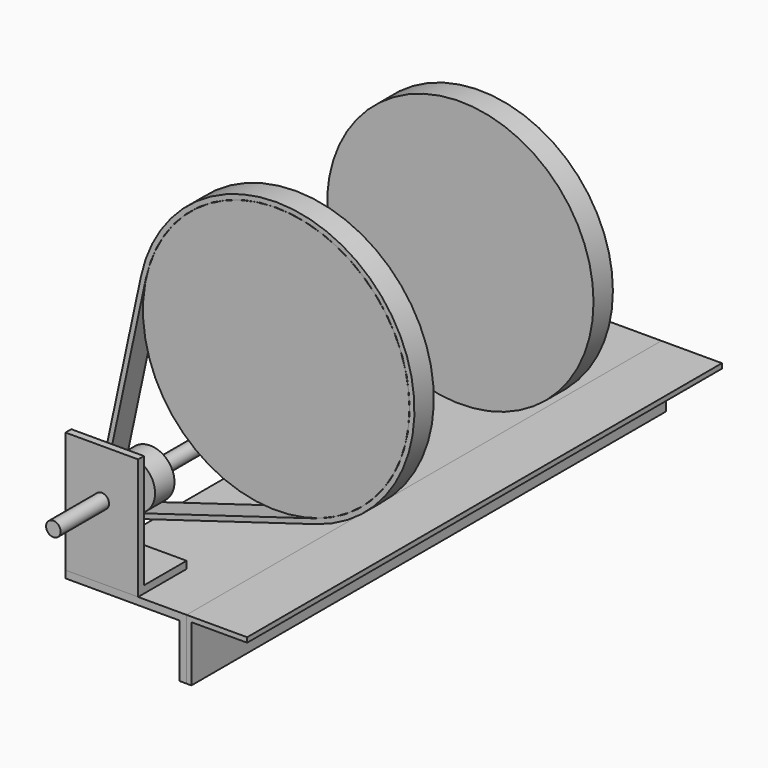
from build123d import *

# Parameters (mm, degrees)
F3_DEPTH       = 245
F5_DEPTH       = 245
F7_DEPTH       = 30
F8_R           = 3
F9_DEPTH       = 245.001
F10_R          = 3
F11_DEPTH      = 135
F11_DEPTH_BACK = 25
F12_R          = 55
F13_DEPTH      = 10
F12_R_2        = 10
F12_R_3        = 3
F14_R          = 55
F15_DEPTH      = 10
F14_R_2        = 10
F17_DEPTH      = 10


with BuildPart() as f3:
    # F2 (on Front) → F3 (new body)
    with BuildSketch(Plane.XZ):
        Polygon((0, 25), (0, 0), (2, 0), (2, 23), (25, 23), (25, 25), align=None)
    extrude(amount=-F3_DEPTH)


with BuildPart() as f5:
    # F4 (on Front) → F5 (new body)
    with BuildSketch(Plane.XZ):
        Polygon((-3, 0), (0, 0), (0, 25), (-50, 25), (-50, 22), (-3, 22), align=None)
    extrude(amount=-F5_DEPTH)


with BuildPart() as f7:
    # F6 (on face) → F7 (new body)
    with BuildSketch(Plane(origin=(-50, 0, 0), x_dir=(0, -1, 0), z_dir=(-1, 0, 0))):
        Polygon((-25, 25), (0, 25), (0, 75), (-3, 75), (-3, 28), (-25, 28), align=None)
    extrude(amount=-F7_DEPTH)


with BuildPart() as f7b:
    # F6 (on face) → F7, piece 2 (new body)
    with BuildSketch(Plane(origin=(-50, 0, 0), x_dir=(0, -1, 0), z_dir=(-1, 0, 0))):
        Polygon((-150, 75), (-150, 25), (-122, 25), (-122, 28), (-147, 28), (-147, 75), align=None)
    extrude(amount=-F7_DEPTH)


with BuildPart() as f9_tool:
    # F8 (on face) → F9 (new body, through all)
    with BuildSketch(Plane.XZ):
        with Locations((-35, 55)):
            Circle(F8_R)
    extrude(amount=-F9_DEPTH)


with BuildPart() as f7_1:
    add(f7.part)

    # F9: cut by f9_tool
    add(f9_tool.part, mode=Mode.SUBTRACT)

    # F10 (on Front) → F11 (join, two sides)
    with BuildSketch(Plane.XZ) as f11_sk:
        with Locations((-35, 55)):
            Circle(F10_R)
    extrude(amount=-F11_DEPTH)
    extrude(f11_sk.sketch, amount=F11_DEPTH_BACK)


with BuildPart() as f7b_1:
    add(f7b.part)

    # F9: cut by f9_tool
    add(f9_tool.part, mode=Mode.SUBTRACT)


with BuildPart() as f13:
    # F12 (on offset) → F13 (new body)
    with BuildSketch(Plane.XZ.offset(-15)):
        with Locations((25, 120)):
            Circle(F12_R)
    extrude(amount=-F13_DEPTH)


with BuildPart() as f13b:
    # F12 (on offset) → F13, piece 2 (new body)
    with BuildSketch(Plane.XZ.offset(-15)):
        with Locations((-35, 55)):
            Circle(F12_R_2)
        with Locations((-35, 55)):
            Circle(F12_R_3, mode=Mode.SUBTRACT)
    extrude(amount=-F13_DEPTH)


with BuildPart() as f15:
    # F14 (on offset) → F15 (new body)
    with BuildSketch(Plane.XZ.offset(-110)):
        with Locations((25, 120)):
            Circle(F14_R)
    extrude(amount=-F15_DEPTH)


with BuildPart() as f15b:
    # F14 (on offset) → F15, piece 2 (new body)
    with BuildSketch(Plane.XZ.offset(-110)):
        with Locations((-35, 55)):
            Circle(F14_R_2)
    extrude(amount=-F15_DEPTH)


with BuildPart() as f17:
    # F16 (on offset) → F17 (new body)
    with BuildSketch(Plane.XZ.offset(-15)):
        with BuildLine():
            Line((-31.5563430121, 43.4948137083), (41.3660228249, 65.3214585208))
            ThreePointArc((41.3660228249, 65.3214585208), (63.713038751, 161.9391253135), (-30.8110399749, 131.9464395667))
            Line((-30.8110399749, 131.9464395667), (-46.7434809831, 57.513710297))
            ThreePointArc((-46.7434809831, 57.513710297), (-43.1458047472, 46.1753781906), (-31.5563430121, 43.4948137083))
        make_face()
        with BuildLine():
            Line((40.7925339952, 67.2374727593), (-32.1298318417, 45.4108279468))
            ThreePointArc((-32.1298318417, 45.4108279468), (-41.7892445342, 47.6449850729), (-44.7877823831, 57.0950899611))
            Line((-44.7877823831, 57.0950899611), (-28.8553413705, 131.5278192508))
            ThreePointArc((-28.8553413705, 131.5278192508), (62.3564785455, 160.4695184243), (40.7925339952, 67.2374727593))
        make_face(mode=Mode.SUBTRACT)
    extrude(amount=-F17_DEPTH)


solid = Compound([f3.part, f5.part, f7_1.part, f7b_1.part, f13.part, f13b.part, f15.part, f15b.part, f17.part])
